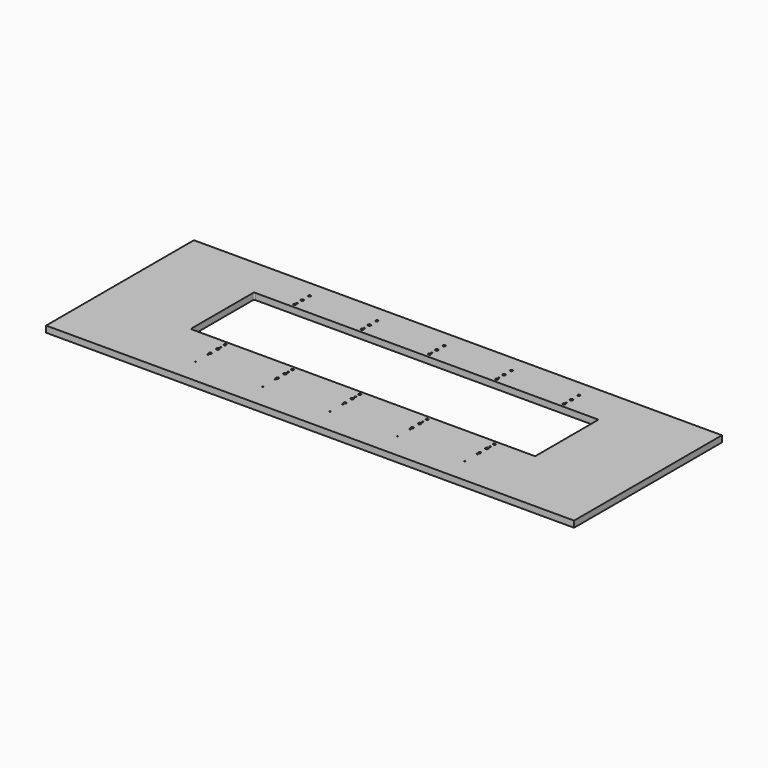
from build123d import *

# Parameters (mm, degrees)
F0_W     = 2000
F0_H     = 700
F0_R     = 4.25
F0_R_2   = 5
F0_W_2   = 1305
F0_H_2   = 300
F1_DEPTH = 24
F2_R     = 5
F3_R     = 2.1
F4_DEPTH = 20
F5_SIZE  = 2.1
F6_SIZE  = 0.5


with BuildPart() as f1:
    # F0 (on Top) → F1 (new body)
    with BuildSketch(Plane.XY):
        with Locations((0, -50)):
            Rectangle(F0_W, F0_H)
        with Locations((-510, -235)):
            Circle(F0_R, mode=Mode.SUBTRACT)
        with Locations((-255, -235)):
            Circle(F0_R, mode=Mode.SUBTRACT)
        with Locations((-510, -200)):
            Circle(F0_R_2, mode=Mode.SUBTRACT)
        with Locations((-510, -165)):
            Circle(F0_R, mode=Mode.SUBTRACT)
        with Locations((-255, -200)):
            Circle(F0_R_2, mode=Mode.SUBTRACT)
        with Locations((-255, -165)):
            Circle(F0_R, mode=Mode.SUBTRACT)
        with Locations((0, -235)):
            Circle(F0_R, mode=Mode.SUBTRACT)
        with Locations((255, -235)):
            Circle(F0_R, mode=Mode.SUBTRACT)
        with Locations((510, -235)):
            Circle(F0_R, mode=Mode.SUBTRACT)
        with Locations((0, -200)):
            Circle(F0_R_2, mode=Mode.SUBTRACT)
        with Locations((0, -165)):
            Circle(F0_R, mode=Mode.SUBTRACT)
        with Locations((255, -200)):
            Circle(F0_R_2, mode=Mode.SUBTRACT)
        with Locations((255, -165)):
            Circle(F0_R, mode=Mode.SUBTRACT)
        with Locations((510, -200)):
            Circle(F0_R_2, mode=Mode.SUBTRACT)
        with Locations((510, -165)):
            Circle(F0_R, mode=Mode.SUBTRACT)
        with Locations((-510, 165)):
            Circle(F0_R, mode=Mode.SUBTRACT)
        with Locations((-510, 200)):
            Circle(F0_R_2, mode=Mode.SUBTRACT)
        with Locations((-510, 235)):
            Circle(F0_R, mode=Mode.SUBTRACT)
        with Locations((-255, 165)):
            Circle(F0_R, mode=Mode.SUBTRACT)
        with Locations((-255, 200)):
            Circle(F0_R_2, mode=Mode.SUBTRACT)
        with Locations((-255, 235)):
            Circle(F0_R, mode=Mode.SUBTRACT)
        Rectangle(F0_W_2, F0_H_2, mode=Mode.SUBTRACT)
        with Locations((0, 165)):
            Circle(F0_R, mode=Mode.SUBTRACT)
        with Locations((0, 200)):
            Circle(F0_R_2, mode=Mode.SUBTRACT)
        with Locations((255, 165)):
            Circle(F0_R, mode=Mode.SUBTRACT)
        with Locations((255, 200)):
            Circle(F0_R_2, mode=Mode.SUBTRACT)
        with Locations((0, 235)):
            Circle(F0_R, mode=Mode.SUBTRACT)
        with Locations((255, 235)):
            Circle(F0_R, mode=Mode.SUBTRACT)
        with Locations((510, 165)):
            Circle(F0_R, mode=Mode.SUBTRACT)
        with Locations((510, 200)):
            Circle(F0_R_2, mode=Mode.SUBTRACT)
        with Locations((510, 235)):
            Circle(F0_R, mode=Mode.SUBTRACT)
    extrude(amount=F1_DEPTH)

    # F2
    f2_edges = [f1.edges().sort_by_distance(p)[0] for p in [
        (-652.5, 150, 12),
        (652.5, 150, 12),
        (652.5, -150, 12),
        (-652.5, -150, 12),
    ]]
    fillet(f2_edges, radius=F2_R)

    # F3 (on face) → F4 (cut)
    with BuildSketch(Plane.XY.offset(24)):
        with Locations((-510, 175)):
            Circle(F3_R)
        with Locations((-255, 175)):
            Circle(F3_R)
        with Locations((0, 175)):
            Circle(F3_R)
        with Locations((0, -185)):
            Circle(F3_R)
        with Locations((-255, -185)):
            Circle(F3_R)
        with Locations((-510, -185)):
            Circle(F3_R)
        with Locations((0, -245)):
            Circle(F3_R)
        with Locations((-255, -245)):
            Circle(F3_R)
        with Locations((-510, -245)):
            Circle(F3_R)
        with Locations((255, -245)):
            Circle(F3_R)
        with Locations((510, -245)):
            Circle(F3_R)
        with Locations((255, -185)):
            Circle(F3_R)
        with Locations((510, -185)):
            Circle(F3_R)
        with Locations((255, 175)):
            Circle(F3_R)
        with Locations((510, 175)):
            Circle(F3_R)
        with Locations((-510, -305)):
            Circle(F3_R)
        with Locations((-255, -305)):
            Circle(F3_R)
        with Locations((0, -305)):
            Circle(F3_R)
        with Locations((510, -305)):
            Circle(F3_R)
        with Locations((255, -305)):
            Circle(F3_R)
    extrude(amount=-F4_DEPTH, mode=Mode.SUBTRACT)

    # F5
    f5_edges = [f1.edges().sort_by_distance(p)[0] for p in [
        (-512.1, 175, 4),
        (-257.1, 175, 4),
        (-2.1, 175, 4),
        (252.9, 175, 4),
        (507.9, 175, 4),
        (507.9, -185, 4),
        (507.9, -245, 4),
        (252.9, -245, 4),
        (252.9, -185, 4),
        (-2.1, -245, 4),
        (-2.1, -185, 4),
        (-257.1, -245, 4),
        (-257.1, -185, 4),
        (-512.1, -185, 4),
        (-512.1, -245, 4),
        (-512.1, -305, 4),
        (-257.1, -305, 4),
        (-2.1, -305, 4),
        (252.9, -305, 4),
        (507.9, -305, 4),
    ]]
    chamfer(f5_edges, length=F5_SIZE)

    # F6
    f6_edges = [f1.edges().sort_by_distance(p)[0] for p in [
        (-505.75, 235, 12),
        (-514.25, 235, 0),
        (-514.25, 235, 24),
        (-505, 200, 12),
        (-515, 200, 0),
        (-515, 200, 24),
        (-505.75, 165, 12),
        (-514.25, 165, 0),
        (-514.25, 165, 24),
        (-512.1, 175, 24),
        (-250.75, 235, 12),
        (-259.25, 235, 0),
        (-259.25, 235, 24),
        (-250, 200, 12),
        (-260, 200, 0),
        (-260, 200, 24),
        (-250.75, 165, 12),
        (-259.25, 165, 0),
        (-259.25, 165, 24),
        (-257.1, 175, 24),
        (4.25, 235, 12),
        (-4.25, 235, 0),
        (-4.25, 235, 24),
        (5, 200, 12),
        (-5, 200, 0),
        (-5, 200, 24),
        (4.25, 165, 12),
        (-4.25, 165, 0),
        (-4.25, 165, 24),
        (-2.1, 175, 24),
        (259.25, 235, 12),
        (250.75, 235, 0),
        (250.75, 235, 24),
        (260, 200, 12),
        (250, 200, 0),
        (250, 200, 24),
        (259.25, 165, 12),
        (250.75, 165, 0),
        (250.75, 165, 24),
        (252.9, 175, 24),
        (514.25, 235, 12),
        (505.75, 235, 0),
        (505.75, 235, 24),
        (515, 200, 12),
        (505, 200, 0),
        (505, 200, 24),
        (514.25, 165, 12),
        (505.75, 165, 0),
        (505.75, 165, 24),
        (507.9, 175, 24),
        (514.25, -165, 12),
        (505.75, -165, 0),
        (505.75, -165, 24),
        (507.9, -185, 24),
        (515, -200, 12),
        (505, -200, 0),
        (505, -200, 24),
        (507.9, -245, 24),
        (514.25, -235, 12),
        (505.75, -235, 0),
        (505.75, -235, 24),
        (252.9, -245, 24),
        (252.9, -185, 24),
        (259.25, -165, 12),
        (250.75, -165, 0),
        (250.75, -165, 24),
        (260, -200, 12),
        (250, -200, 0),
        (250, -200, 24),
        (259.25, -235, 12),
        (250.75, -235, 0),
        (250.75, -235, 24),
        (-2.1, -185, 24),
        (4.25, -165, 12),
        (-4.25, -165, 0),
        (-4.25, -165, 24),
        (5, -200, 12),
        (-5, -200, 0),
        (-5, -200, 24),
        (4.25, -235, 12),
        (-4.25, -235, 0),
        (-4.25, -235, 24),
        (-2.1, -245, 24),
        (-250.75, -235, 12),
        (-259.25, -235, 0),
        (-259.25, -235, 24),
        (-250, -200, 12),
        (-260, -200, 0),
        (-260, -200, 24),
        (-250.75, -165, 12),
        (-259.25, -165, 0),
        (-259.25, -165, 24),
        (-257.1, -185, 24),
        (-257.1, -245, 24),
        (-505.75, -235, 12),
        (-514.25, -235, 0),
        (-514.25, -235, 24),
        (-505, -200, 12),
        (-515, -200, 0),
        (-515, -200, 24),
        (-505.75, -165, 12),
        (-514.25, -165, 0),
        (-514.25, -165, 24),
        (-512.1, -185, 24),
        (-512.1, -245, 24),
    ]]
    chamfer(f6_edges, length=F6_SIZE)


solid = f1.part
